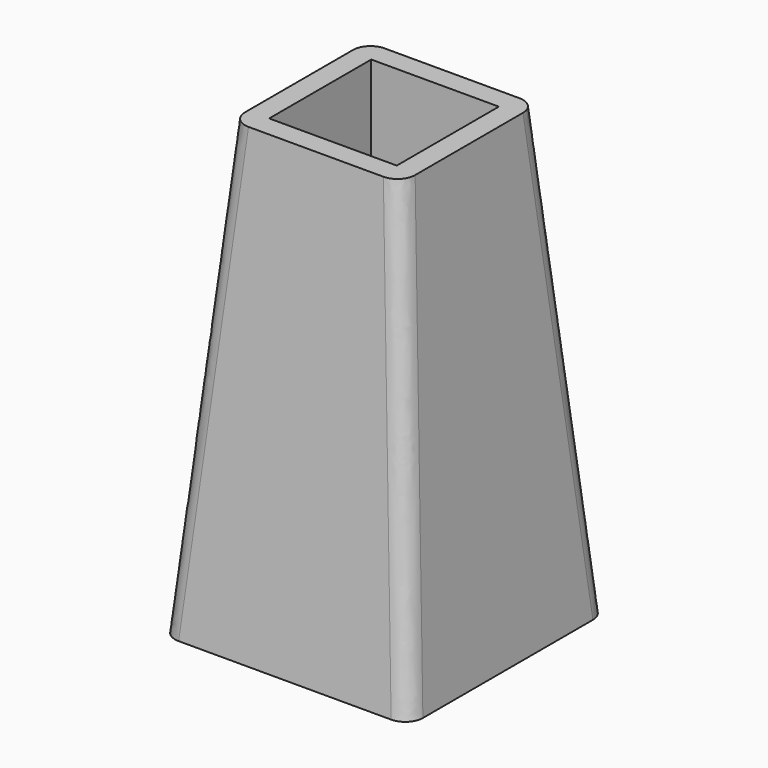
from build123d import *

# Parameters (mm, degrees)
F0_W     = 48.052
F0_H     = 48.052
F2_W     = 70
F2_H     = 70
F4_W     = 36.052
F4_H     = 36.052
F5_DEPTH = 38.1
F6_R     = 5
F7_W     = 48.052
F7_H     = 48.052
F8_DEPTH = 6


with BuildPart() as f3:
    # F0 (on Top) → F3 section 0
    with BuildSketch(Plane.XY):
        Rectangle(F0_W, F0_H)
    # F2 (on offset) → F3 section 1
    with BuildSketch(Plane.XY.offset(-127)):
        Rectangle(F2_W, F2_H)
    loft()

    # F4 (on face) → F5 (cut)
    with BuildSketch(Plane.XY):
        Rectangle(F4_W, F4_H)
    extrude(amount=-F5_DEPTH, mode=Mode.SUBTRACT)

    # F6
    f6_edges = [f3.edges().sort_by_distance(p)[0] for p in [
        (-29.513, -29.513, -63.5),
        (29.513, -29.513, -63.5),
        (-29.513, 29.513, -63.5),
        (29.513, 29.513, -63.5),
    ]]
    fillet(f6_edges, radius=F6_R)

    # F7 (on face) → F8 (cut)
    with BuildSketch(Plane(origin=(0, 0, -127), x_dir=(1, 0, 0), z_dir=(0, 0, -1))):
        Rectangle(F7_W, F7_H)
    extrude(amount=-F8_DEPTH, mode=Mode.SUBTRACT)


solid = f3.part
